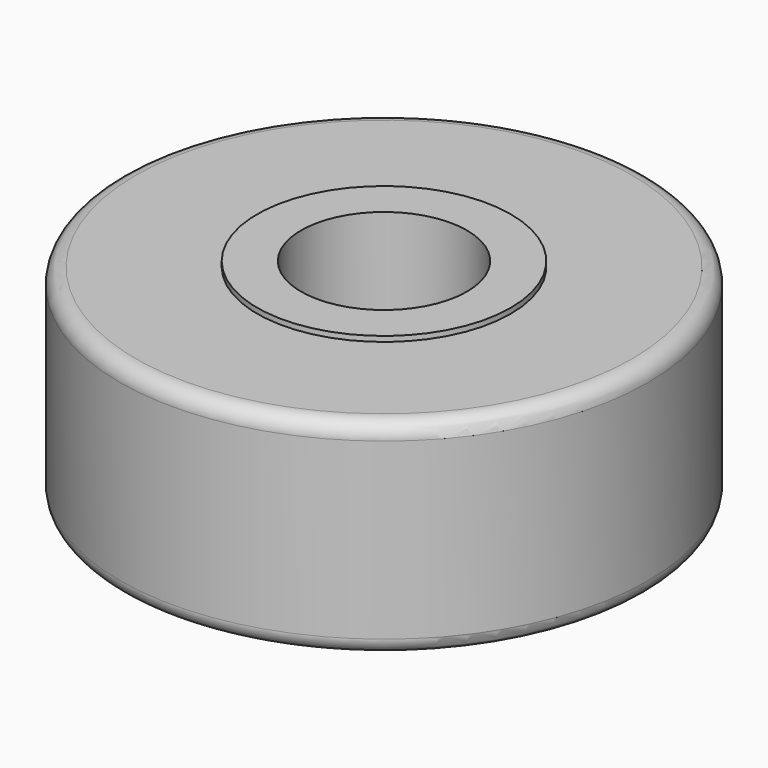
from build123d import *

# Parameters (mm, degrees)
F0_R     = 6.35
F0_R_2   = 1.9939
F1_DEPTH = 4.953
F2_R     = 3.048
F2_R_2   = 1.9939
F3_DEPTH = 0.127
F4_R     = 0.381


with BuildPart() as f1:
    # F0 (on Top) → F1 (new body)
    with BuildSketch(Plane.XY):
        Circle(F0_R)
        Circle(F0_R_2, mode=Mode.SUBTRACT)
    extrude(amount=F1_DEPTH)

    # F2 (on face) → F3 (join)
    with BuildSketch(Plane.XY.offset(4.953)):
        Circle(F2_R)
        Circle(F2_R_2, mode=Mode.SUBTRACT)
    extrude(amount=F3_DEPTH)

    # F4
    f4_edges = [f1.edges().sort_by_distance(p)[0] for p in [
        (-6.35, 0, 4.953),
        (-6.35, 0, 0),
    ]]
    fillet(f4_edges, radius=F4_R)


solid = f1.part
